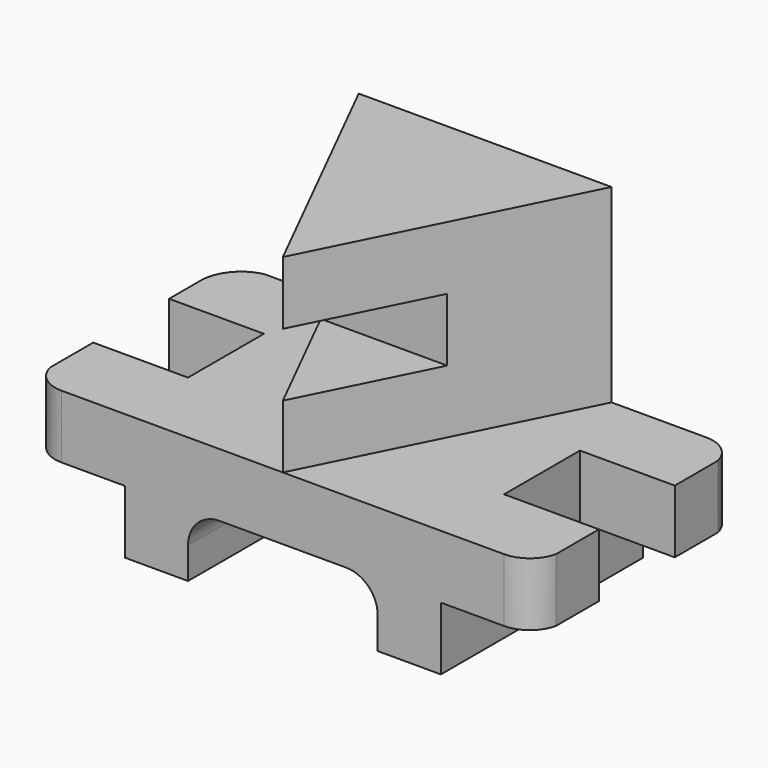
from build123d import *

# Parameters (mm, degrees)
F1_DEPTH  = 12.7
F3_DEPTH  = 38.1
F4_W      = 19.05
F4_H      = 12.7
F5_DEPTH  = 50.801
F7_START  = -25.4
F6_W      = 25.4
F6_H      = 12.7
F7_DEPTH  = 72.90484
F9_DEPTH  = 25.401
F11_DEPTH = 25.401


with BuildPart() as f1:
    # F0 (on Top) → F1 (new body, symmetric)
    with BuildSketch(Plane.XY):
        Polygon((0, 15.875), (0, 0), (101.6, 0), (101.6, 15.875), (82.55, 15.875), (82.55, 34.925), (101.6, 34.925), (101.6, 50.8), (0, 50.8), (0, 34.925), (19.05, 34.925), (19.05, 15.875), align=None)
    extrude(amount=F1_DEPTH, both=True)

    # F2 (on face) → F3 (join)
    with BuildSketch(Plane.XY.offset(12.7)):
        Polygon((76.2, 50.8), (25.4, 50.8), (50.8, 0), align=None)
    extrude(amount=F3_DEPTH)

    # F4 (on face) → F5 (cut, through all)
    with BuildSketch(Plane.XZ):
        with Locations((9.525, -6.35)):
            Rectangle(F4_W, F4_H)
        with BuildLine():
            Line((31.75, -12.7), (69.85, -12.7))
            Line((69.85, -12.7), (69.85, -6.35))
            ThreePointArc((69.85, -6.35), (67.9901280605, -1.8598719395), (63.5, 0))
            Line((63.5, 0), (38.1, 0))
            ThreePointArc((38.1, 0), (33.6098719395, -1.8598719395), (31.75, -6.35))
            Line((31.75, -6.35), (31.75, -12.7))
        make_face()
        with Locations((92.075, -6.35)):
            Rectangle(F4_W, F4_H)
    extrude(amount=-F5_DEPTH, mode=Mode.SUBTRACT)

    # F6 (on face) → F7 (cut)
    with BuildSketch(Plane(origin=(0, 50.8, 0), x_dir=(-1, 0, 0), z_dir=(0, 1, 0)).offset(F7_START)):
        with Locations((-50.8, 31.75)):
            Rectangle(F6_W, F6_H)
    extrude(amount=-F7_DEPTH, mode=Mode.SUBTRACT)

    # F8 (on face) → F9 (cut, through all)
    with BuildSketch(Plane.XY.offset(12.7)):
        with BuildLine():
            Line((0, 50.8), (0, 42.8625))
            ThreePointArc((0, 42.8625), (1.8247273895, 47.9848874708), (6.4769983292, 50.8))
            Line((6.4769983292, 50.8), (0, 50.8))
        make_face()
        with BuildLine():
            ThreePointArc((6.35, 0), (2.2840161092, 1.4262701365), (0, 5.08))
            Line((0, 5.08), (0, 0))
            Line((0, 0), (6.35, 0))
        make_face()
    extrude(amount=-F9_DEPTH, mode=Mode.SUBTRACT)

    # F10 (on face) → F11 (cut, through all)
    with BuildSketch(Plane.XY.offset(12.7)):
        with BuildLine():
            Line((101.6, 50.8), (95.25, 50.8))
            ThreePointArc((95.25, 50.8), (99.3159838908, 49.3737298635), (101.6, 45.72))
            Line((101.6, 45.72), (101.6, 50.8))
        make_face()
        with BuildLine():
            ThreePointArc((101.6, 5.08), (99.3159838908, 1.4262701365), (95.25, 0))
            Line((95.25, 0), (101.6, 0))
            Line((101.6, 0), (101.6, 5.08))
        make_face()
    extrude(amount=-F11_DEPTH, mode=Mode.SUBTRACT)


solid = f1.part
